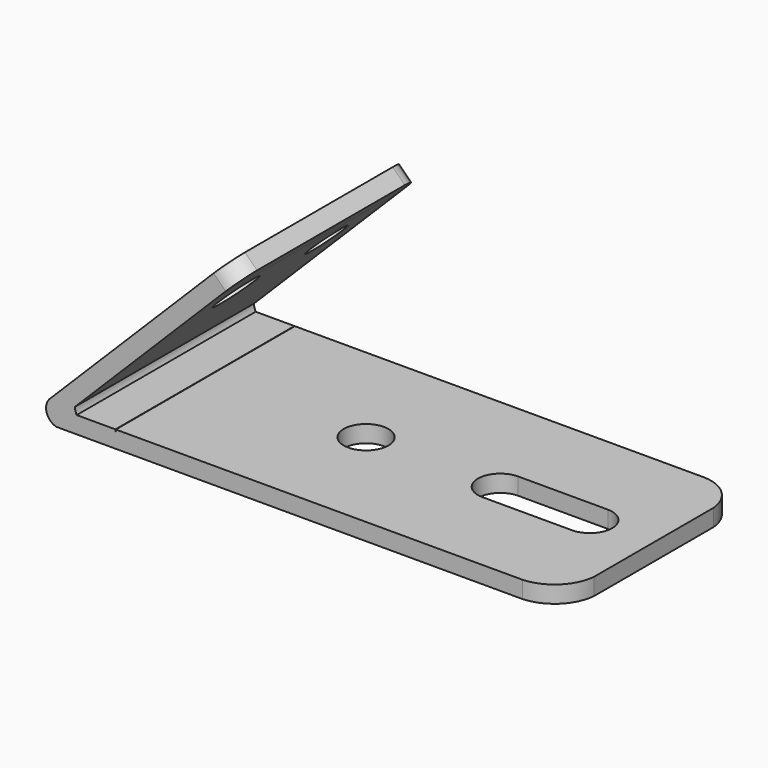
from build123d import *

# Parameters (mm, degrees)
F1_DEPTH = 25
F2_R     = 2.4771890227
F2_R_2   = 2.250855145
F3_DEPTH = 5
F5_DEPTH = 6
F6_R     = 2.5
F7_DEPTH = 25


with BuildPart() as f1:
    # F0 (on Front) → F1 (new body)
    with BuildSketch(Plane.XZ):
        with BuildLine():
            Line((-6.5901947265, 0), (0, 0))
            Line((0, 0), (0, 1.4541312475))
            Line((0, 1.4541312475), (0, 1.9))
            Line((0, 1.9), (-2.1543446928, 1.9))
            Line((-2.1543446928, 1.9), (-4.3302040632, 1.9))
            ThreePointArc((-4.3302040632, 1.9), (-4.4665240815, 2.2584645112), (-4.5287162974, 2.6368982326))
            Line((-4.5287162974, 2.6368982326), (-3.7099796114, 3.4556349186))
            Line((-3.7099796114, 3.4556349186), (11.8111070049, 18.9767215349))
            Line((11.8111070049, 18.9767215349), (13.9676899182, 21.1333044483))
            Line((13.9676899182, 21.1333044483), (12.624187034, 22.4768073325))
            Line((12.624187034, 22.4768073325), (-7.1773967105, 2.6752235881))
            Line((-7.1773967105, 2.6752235881), (-7.4079630013, 2.4446572973))
            ThreePointArc((-7.4079630013, 2.4446572973), (-7.6680055311, 0.9985643577), (-6.5901947265, 0))
        make_face()
        with BuildLine():
            Line((0, 1.4541312475), (0, 0))
            Line((0, 0), (50, 0))
            Line((50, 0), (50, 1.9))
            Line((50, 1.9), (0.0456553072, 1.9))
            ThreePointArc((0.0456553072, 1.9), (0.0342117177, 1.6758999378), (0, 1.4541312475))
        make_face()
    extrude(amount=F1_DEPTH)

    # F2 (on face) → F3 (cut)
    with BuildSketch(Plane(origin=(-4.9263101493, 0, 4.9263101493), x_dir=(0, -1, 0), z_dir=(-0.7071067812, 0, 0.7071067812))):
        with Locations((18.7418013811, 17.0671120286)):
            Circle(F2_R)
        with Locations((6.0519576073, 16.9952586293)):
            Circle(F2_R_2)
    extrude(amount=-F3_DEPTH, mode=Mode.SUBTRACT)

    # F4 (on face) → F5 (cut)
    with BuildSketch(Plane(origin=(-4.9263101493, 0, 4.9263101493), x_dir=(0, -1, 0), z_dir=(-0.7071067812, 0, 0.7071067812))):
        with BuildLine():
            Line((0, 24.8201511429), (0, 22.8517428041))
            ThreePointArc((0, 22.8517428041), (0.6533469706, 24.2230461475), (2.0500576593, 24.8201511429))
            Line((2.0500576593, 24.8201511429), (0, 24.8201511429))
        make_face()
        with BuildLine():
            ThreePointArc((22.6727053523, 24.8201511429), (24.2438861053, 24.062743833), (25, 22.4909402288))
            Line((25, 22.4909402288), (25, 24.8201511429))
            Line((25, 24.8201511429), (22.6727053523, 24.8201511429))
        make_face()
    extrude(amount=-F5_DEPTH, mode=Mode.SUBTRACT)

    # F6 (on face) → F7 (cut)
    with BuildSketch(Plane.XY.offset(1.9)):
        with BuildLine():
            ThreePointArc((45.8127014494, 0), (48.6544638234, -1.190988554), (50, -3.9629192031))
            Line((50, -3.9629192031), (50, 0))
            Line((50, 0), (45.8127014494, 0))
        make_face()
        with BuildLine():
            ThreePointArc((50, -20.6832401454), (48.5516700012, -23.6773197936), (45.5, -25))
            Line((45.5, -25), (50, -25))
            Line((50, -25), (50, -20.6832401454))
        make_face()
        with BuildLine():
            Line((33, -15), (43, -15))
            ThreePointArc((43, -15), (45.5, -12.5), (43, -10))
            Line((43, -10), (33, -10))
            ThreePointArc((33, -10), (30.5, -12.5), (33, -15))
        make_face()
        with Locations((18, -12.5)):
            Circle(F6_R)
    extrude(amount=-F7_DEPTH, mode=Mode.SUBTRACT)


solid = f1.part
